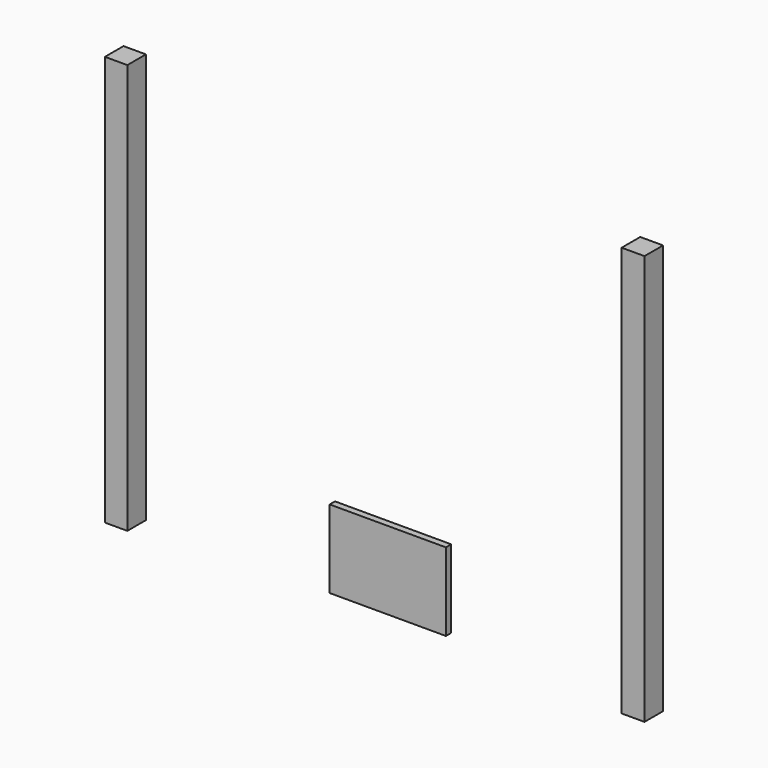
from build123d import *

# Parameters (mm, degrees)
F0_W     = 85.725
F0_H     = 1270
F0_H_2   = 298.45
F0_W_2   = 87.3125
F1_DEPTH = 88.9
F2_W     = 444.5
F2_H     = 298.45
F3_DEPTH = 25.4


with BuildPart() as f1:
    # F0 (on Front) → F1 (new body)
    with BuildSketch(Plane.XZ):
        with Locations((-988.21875, 635)):
            Rectangle(F0_W, F0_H)
        with Locations((-988.21875, -149.225)):
            Rectangle(F0_W, F0_H_2)
        with Locations((989.0125, 635)):
            Rectangle(F0_W_2, F0_H)
        with Locations((989.0125, -149.225)):
            Rectangle(F0_W_2, F0_H_2)
    extrude(amount=F1_DEPTH)


with BuildPart() as f3:
    # F2 (on Front) → F3 (new body)
    with BuildSketch(Plane.XZ):
        with Locations((0, -149.225)):
            Rectangle(F2_W, F2_H)
    extrude(amount=F3_DEPTH)


solid = Compound([f1.part, f3.part])
